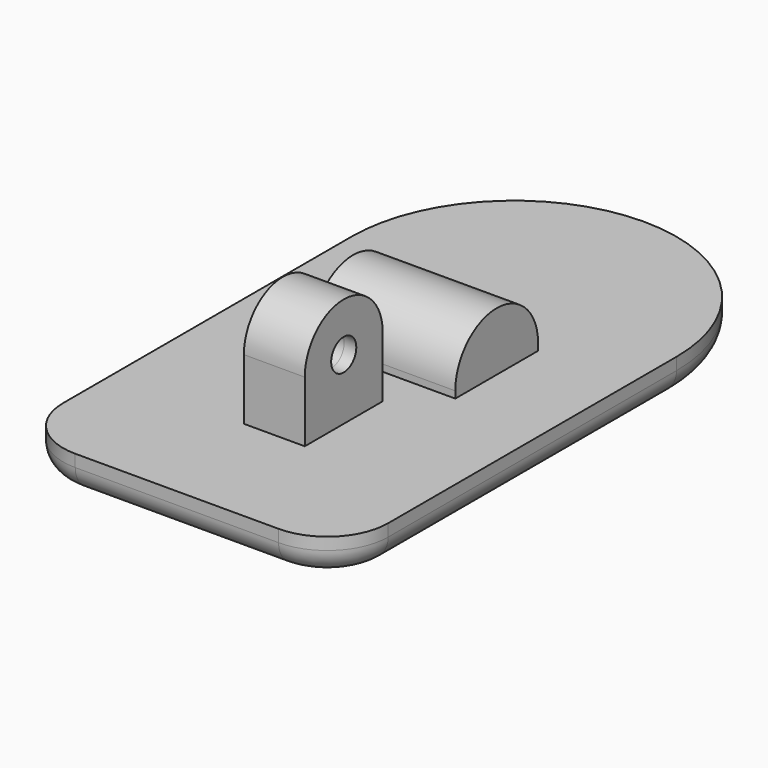
from build123d import *

# Parameters (mm, degrees)
F0_W      = 10.85
F0_H      = 10
F0_W_2    = 2.5
F0_H_2    = 8
F0_W_3    = 7.45
F0_H_3    = 3.2
F0_H_4    = 8.5
F0_W_4    = 5.9
F1_DEPTH  = 3
F2_DEPTH  = 0.563
F3_DEPTH  = 5
F6_DEPTH  = 11.8
F7_DEPTH  = 5
F8_DEPTH  = 25
F9_R      = 2.056128731
F10_DEPTH = 1
F11_R     = 5
F12_R     = 5
F13_R     = 2
F14_DEPTH = 25


with BuildPart() as f1:
    # F0 (on Top) → F1 (new body)
    with BuildSketch(Plane.XY):
        Polygon((-5.9, -16.6), (-13.35, -16.6), (-13.35, -24.6), (-2.5, -24.6), (-2.5, -16.6), align=None)
        with Locations((-7.925, -29.6)):
            Rectangle(F0_W, F0_H)
        with Locations((1.25, -29.6)):
            Rectangle(F0_W_2, F0_H)
        with Locations((-1.25, -29.6)):
            Rectangle(F0_W_2, F0_H)
        with Locations((-1.25, -20.6)):
            Rectangle(F0_W_2, F0_H_2)
        with Locations((1.25, -20.6)):
            Rectangle(F0_W_2, F0_H_2)
        Polygon((13.35, -24.6), (13.35, -16.6), (5.9, -16.6), (2.5, -16.6), (2.5, -24.6), align=None)
        with Locations((7.925, -29.6)):
            Rectangle(F0_W, F0_H)
        Polygon((5.9, -13.4), (0, -13.4), (0, -16.6), (2.5, -16.6), (5.9, -16.6), align=None)
        with Locations((9.625, -15)):
            Rectangle(F0_W_3, F0_H_3)
        Polygon((0, -16.6), (0, -13.4), (-5.9, -13.4), (-5.9, -16.6), (-2.5, -16.6), align=None)
        with Locations((-9.625, -15)):
            Rectangle(F0_W_3, F0_H_3)
        with Locations((-9.625, -9.15)):
            Rectangle(F0_W_3, F0_H_4)
        with Locations((-2.95, -9.15)):
            Rectangle(F0_W_4, F0_H_4)
        with Locations((2.95, -9.15)):
            Rectangle(F0_W_4, F0_H_4)
        with Locations((9.625, -9.15)):
            Rectangle(F0_W_3, F0_H_4)
        with BuildLine():
            Line((13.35, -4.9), (13.35, 0))
            ThreePointArc((13.35, 0), (9.4398755288, 9.4398755288), (0, 13.35))
            Line((0, 13.35), (0, -4.9))
            Line((0, -4.9), (5.9, -4.9))
            Line((5.9, -4.9), (13.35, -4.9))
        make_face()
        with BuildLine():
            Line((0, -4.9), (0, 13.35))
            ThreePointArc((0, 13.35), (-9.4398755288, 9.4398755288), (-13.35, 0))
            Line((-13.35, 0), (-13.35, -4.9))
            Line((-13.35, -4.9), (-5.9, -4.9))
            Line((-5.9, -4.9), (0, -4.9))
        make_face()
    extrude(amount=-F1_DEPTH)

    # F0 (on Top) → F2 (join)
    with BuildSketch(Plane.XY):
        with Locations((-2.95, -9.15)):
            Rectangle(F0_W_4, F0_H_4)
        with Locations((2.95, -9.15)):
            Rectangle(F0_W_4, F0_H_4)
    extrude(amount=F2_DEPTH)

    # F0 (on Top) → F3 (join)
    with BuildSketch(Plane.XY):
        with Locations((1.25, -20.6)):
            Rectangle(F0_W_2, F0_H_2)
        with Locations((-1.25, -20.6)):
            Rectangle(F0_W_2, F0_H_2)
    extrude(amount=F3_DEPTH)

    # F5 (on face) → F6 (join)
    with BuildSketch(Plane.YZ.offset(5.9)):
        with BuildLine():
            Line((-13.4, 0.563), (-4.9, 0.563))
            ThreePointArc((-4.9, 0.563), (-9.15, 4.813), (-13.4, 0.563))
        make_face()
    extrude(amount=-F6_DEPTH)

    # F4 (on face) → F7 (join)
    with BuildSketch(Plane.YZ.offset(2.5)):
        with BuildLine():
            Line((-19.311, 5), (-16.6, 5))
            ThreePointArc((-16.6, 5), (-20.6, 9), (-24.6, 5))
            Line((-24.6, 5), (-21.889, 5))
            ThreePointArc((-21.889, 5), (-20.6, 6.289), (-19.311, 5))
        make_face()
    extrude(amount=-F7_DEPTH)

    # F4 (on face) → F8 (cut)
    with BuildSketch(Plane.YZ.offset(2.5)):
        with BuildLine():
            ThreePointArc((-21.889, 5), (-20.6, 3.711), (-19.311, 5))
            Line((-19.311, 5), (-21.889, 5))
        make_face()
        with BuildLine():
            Line((-21.889, 5), (-19.311, 5))
            ThreePointArc((-19.311, 5), (-20.6, 6.289), (-21.889, 5))
        make_face()
    extrude(amount=-F8_DEPTH, mode=Mode.SUBTRACT)

    # F9 (on face) → F10 (join)
    with BuildSketch(Plane.YZ.offset(2.5)):
        with Locations((-20.6, 5)):
            Circle(F9_R)
    extrude(amount=-F10_DEPTH)

    # F11
    f11_edges = [f1.edges().sort_by_distance(p)[0] for p in [
        (13.35, -34.6, -1.5),
    ]]
    fillet(f11_edges, radius=F11_R)

    # F12
    f12_edges = [f1.edges().sort_by_distance(p)[0] for p in [
        (-13.35, -34.6, -1.5),
    ]]
    fillet(f12_edges, radius=F12_R)

    # F13
    f13_edges = [f1.edges().sort_by_distance(p)[0] for p in [
        (0, -34.6, -3),
    ]]
    fillet(f13_edges, radius=F13_R)

    # F14 (cut): a face of the model
    f14_faces = [f1.faces().sort_by_distance(p)[0] for p in [
        (1.5, -20.6, 5),
    ]]
    extrude(f14_faces, amount=-F14_DEPTH, mode=Mode.SUBTRACT)


solid = f1.part
